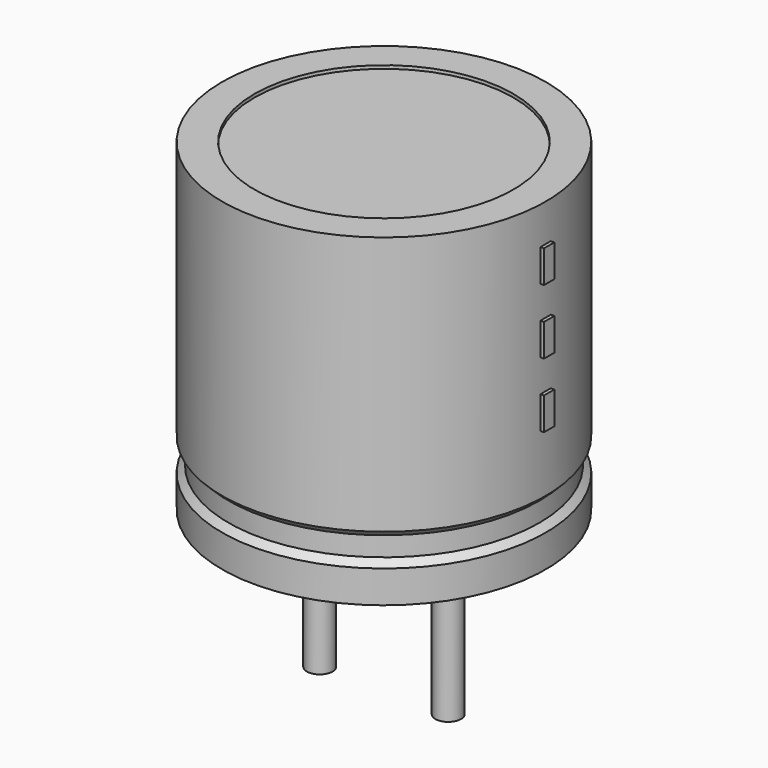
from build123d import *

# Parameters (mm, degrees)
SKETCH002_W  = 2.898
SKETCH002_H  = 6.174
SKETCH003_R  = 0.25
PAD_DEPTH    = 3.63
SKETCH004_W  = 0.252
SKETCH004_H  = 0.63
PAD001_DEPTH = 3.213


with BuildPart() as revolution:
    # Sketch → Revolution (revolve)
    with BuildSketch(Plane.XZ):
        Polygon((-1.9, 0.1), (-1.9, 0.73), (-1.774, 0.856), (-1.774, 1.234), (-1.9, 1.36), (-1.9, 6.4), (-1.27, 6.4), (-1.27, 0.1), align=None)
    revolve(axis=Axis((1.25, 0, 7.548619), (0, 0, -1)))


with BuildPart() as revolution001:
    # Sketch002 → Revolution001 (revolve)
    with BuildSketch(Plane.XZ):
        with Locations((-0.199, 3.25)):
            Rectangle(SKETCH002_W, SKETCH002_H)
    revolve(axis=Axis((1.25, 0, 4.680116), (0, 0, -1)))


with BuildPart() as pad:
    # Sketch003 → Pad (new body)
    with BuildSketch(Plane.XY.offset(0.63)):
        Circle(SKETCH003_R)
        with Locations((2.5, 0)):
            Circle(SKETCH003_R)
    extrude(amount=-PAD_DEPTH)


with BuildPart() as pad001:
    # Sketch004 → Pad001 (new body)
    with BuildSketch(Plane.YZ.offset(1.25)):
        with Locations((0, 2.835)):
            Rectangle(SKETCH004_W, SKETCH004_H)
        with Locations((0, 4.095)):
            Rectangle(SKETCH004_W, SKETCH004_H)
        with Locations((0, 5.355)):
            Rectangle(SKETCH004_W, SKETCH004_H)
    extrude(amount=PAD001_DEPTH)


solid = Compound([revolution.part, revolution001.part, pad.part, pad001.part])
